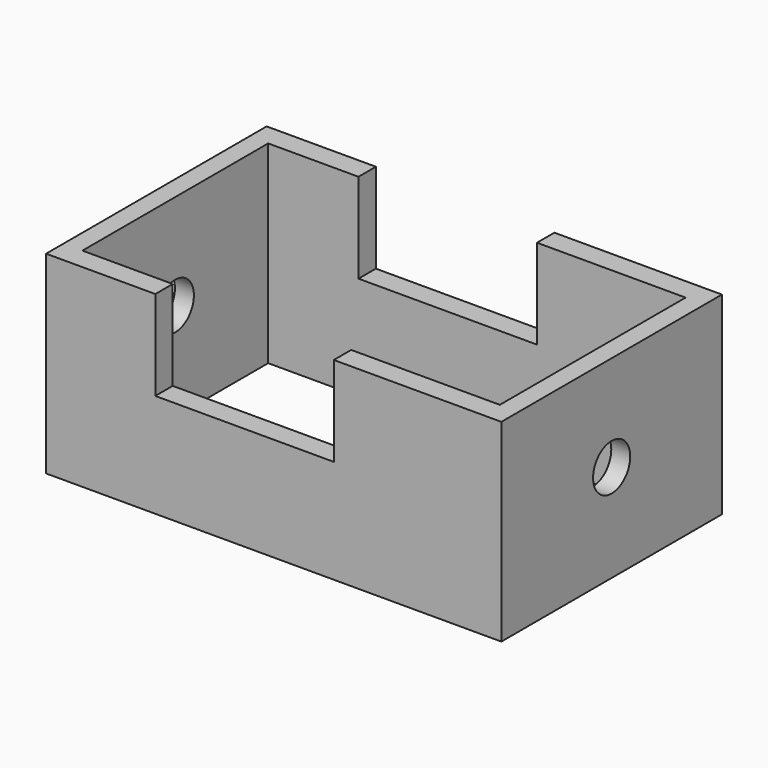
from build123d import *

# Parameters (mm, degrees)
F0_W     = 170.937256
F0_H     = 103.51549
F1_DEPTH = 72.644
F2_W     = 156.719148
F2_H     = 87.184086
F3_DEPTH = 171.45
F4_W     = 67.018675
F4_H     = 33.684524
F6_DEPTH = 172.212
F7_R     = 8.715652
F8_DEPTH = 233.934


with BuildPart() as f1:
    # F0 (on Top) → F1 (new body)
    with BuildSketch(Plane.XY):
        Rectangle(F0_W, F0_H)
    extrude(amount=F1_DEPTH)

    # F2 (on face) → F3 (cut)
    with BuildSketch(Plane.XY.offset(72.644)):
        Rectangle(F2_W, F2_H)
    extrude(amount=-F3_DEPTH, mode=Mode.SUBTRACT)

    # F4 (on face) → F6 (cut)
    with BuildSketch(Plane.XZ.offset(51.757745)):
        with Locations((-10.945341, 55.801738)):
            Rectangle(F4_W, F4_H)
    extrude(amount=-F6_DEPTH, mode=Mode.SUBTRACT)

    # F7 (on face) → F8 (cut)
    with BuildSketch(Plane.YZ.offset(85.468628)):
        with Locations((0, 36.621507)):
            Circle(F7_R)
    extrude(amount=-F8_DEPTH, mode=Mode.SUBTRACT)


solid = f1.part
